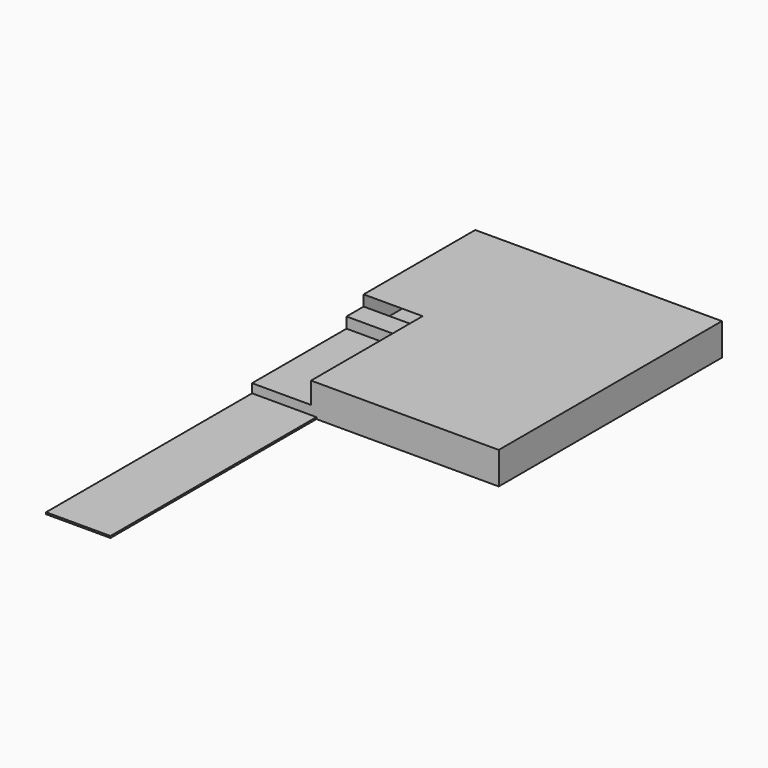
from build123d import *

# Parameters (mm, degrees)
F0_W     = 837.642569
F0_H     = 1676.4
F1_DEPTH = 152.4
F0_H_2   = 304.8
F2_DEPTH = 304.8
F3_DEPTH = 457.2
F4_DEPTH = 25.4


with BuildPart() as f1:
    # F0 (on Top) → F1 (new body)
    with BuildSketch(Plane.XY):
        with Locations((-1333.221284, -1143)):
            Rectangle(F0_W, F0_H)
    extrude(amount=F1_DEPTH)

    # F0 (on Top) → F2 (join)
    with BuildSketch(Plane.XY):
        with Locations((-1333.221284, -152.4)):
            Rectangle(F0_W, F0_H_2)
    extrude(amount=F2_DEPTH)

    # F0 (on Top) → F3 (join)
    with BuildSketch(Plane.XY):
        Polygon((-837.642569, -1981.2), (1752.042569, -1981.2), (1752.042569, 1981.2), (-1752.042569, 1981.2), (-1752.042569, 0), (-914.4, 0), (-914.4, -304.8), (-914.4, -1981.2), align=None)
    extrude(amount=F3_DEPTH)

    # F0 (on Top) → F4 (join)
    with BuildSketch(Plane.XY):
        Polygon((-837.642569, -5638.8), (-837.642569, -1981.2), (-914.4, -1981.2), (-1752.042569, -1981.2), (-1752.042569, -5638.8), align=None)
    extrude(amount=F4_DEPTH)


solid = f1.part
